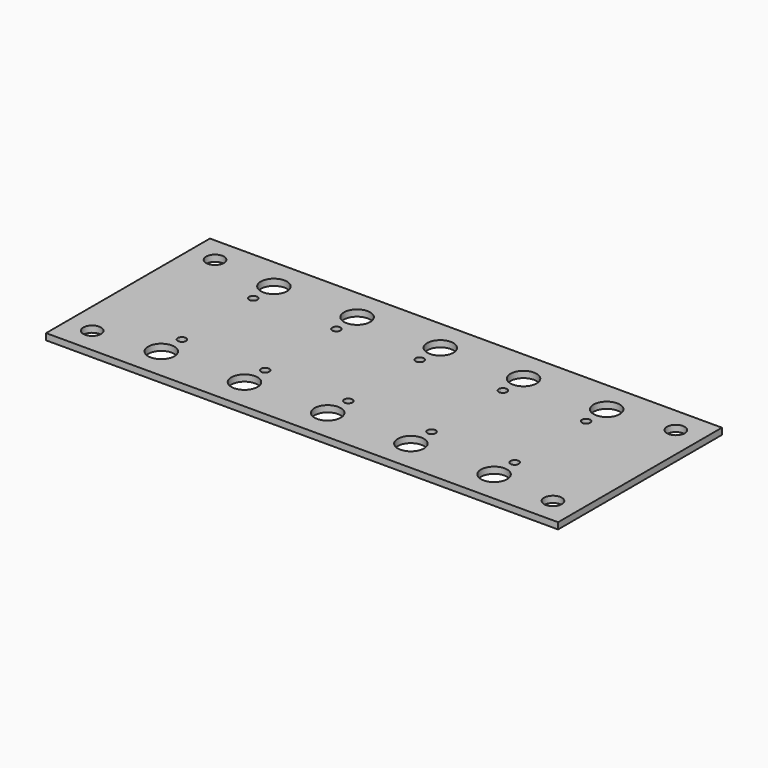
from build123d import *

# Parameters (mm, degrees)
F0_W      = 279.4
F0_H      = 101.6
F1_DEPTH  = 3.175
F2_W      = 25.4
F2_H      = 76.2
F3_DEPTH  = 3.176
F5_D      = 6.35
F7_D      = 8.8
F9_D      = 8.8
F11_D     = 4.1
F12_W     = 25.4
F12_H     = 25.4
F12_R     = 3.175
F13_DEPTH = 25.4
F14_D     = 12.9999994


with BuildPart() as f1:
    # F0 (on Top) → F1 (new body)
    with BuildSketch(Plane.XY):
        with Locations((37.6198536942, 37.7514991719)):
            Rectangle(F0_W, F0_H)
    extrude(amount=F1_DEPTH)

    # F2 (on face) → F3 (cut, through all)
    with BuildSketch(Plane.XY.offset(3.175)):
        with Locations((-89.3801463058, 25.0514991719)):
            Rectangle(F2_W, F2_H)
    extrude(amount=-F3_DEPTH, mode=Mode.SUBTRACT)

    # F5 (through all)
    with Locations(Plane.XY.offset(3.175)):
        with Locations((-89.3801463058, 75.8514991719)):
            Hole(F5_D / 2)

    # F7 (through all)
    with Locations(Plane.XY.offset(3.175)):
        with Locations((-63.9801463058, 75.8514991719)):
            Hole(F7_D / 2)

    # F9 (through all)
    with Locations(Plane.XY.offset(3.175)):
        with Locations((-63.9801463058, -0.3485008281), (164.6198536942, -0.3485008281), (164.6198536942, 75.8514991719)):
            Hole(F9_D / 2)

    # F11 (through all)
    with Locations(Plane.XY.offset(3.175)):
        with Locations((132.8698536942, 15.6264989719), (91.5948536942, 15.6264989719), (50.3198536942, 15.6264989719), (9.0448536942, 15.6264989719), (-32.2301463058, 15.6264989719), (132.8698536942, 59.8764993719), (91.5948536942, 59.8764993719), (50.3198536942, 59.8764993719), (9.0448536942, 59.8764993719), (-32.2301463058, 59.8764993719)):
            Hole(F11_D / 2)

    # F12 (on face) → F13 (cut)
    with BuildSketch(Plane.XY.offset(3.175)):
        with Locations((-89.3801463058, 75.8514991719)):
            Rectangle(F12_W, F12_H)
        with Locations((-89.3801463058, 75.8514991719)):
            Circle(F12_R, mode=Mode.SUBTRACT)
    extrude(amount=-F13_DEPTH, mode=Mode.SUBTRACT)

    # F14 (through all)
    with Locations(Plane.XY.offset(3.175)):
        with Locations((132.8698536942, 2.8264991719), (91.5948536942, 2.8264991719), (50.3198536942, 2.8264991719), (9.0448536942, 2.8264991719), (-32.2301463058, 2.8264991719), (132.8698536942, 72.6764991719), (91.5948536942, 72.6764991719), (50.3198536942, 72.6764991719), (9.0448536942, 72.6764991719), (-32.2301463058, 72.6764991719)):
            Hole(F14_D / 2)


solid = f1.part
